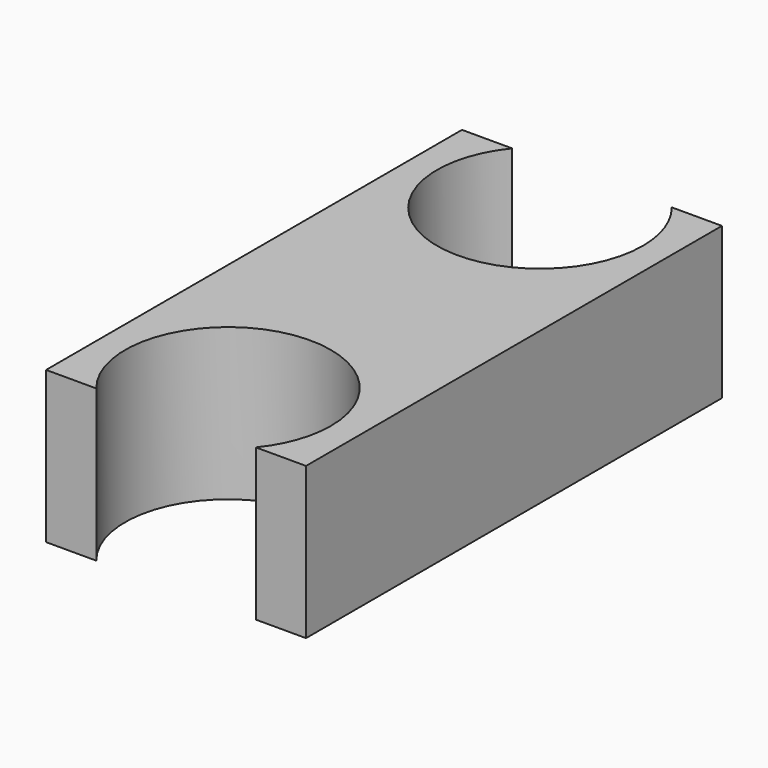
from build123d import *

# Parameters (mm, degrees)
F1_DEPTH = 7


with BuildPart() as f1:
    # F0 (on Top) → F1 (new body)
    with BuildSketch(Plane.XY):
        with BuildLine():
            Line((6, -12), (6, 12))
            Line((6, 12), (3.68273, 12))
            ThreePointArc((3.68273, 12), (4.475236, 10.592095), (4.75, 9))
            ThreePointArc((4.75, 9), (-1.592095, 4.524764), (-3.68273, 12))
            Line((-3.68273, 12), (-6, 12))
            Line((-6, 12), (-6, -12))
            Line((-6, -12), (-3.68273, -12))
            ThreePointArc((-3.68273, -12), (-1.592095, -4.524764), (4.75, -9))
            ThreePointArc((4.75, -9), (4.475236, -10.592095), (3.68273, -12))
            Line((3.68273, -12), (6, -12))
        make_face()
    extrude(amount=F1_DEPTH)


solid = f1.part
